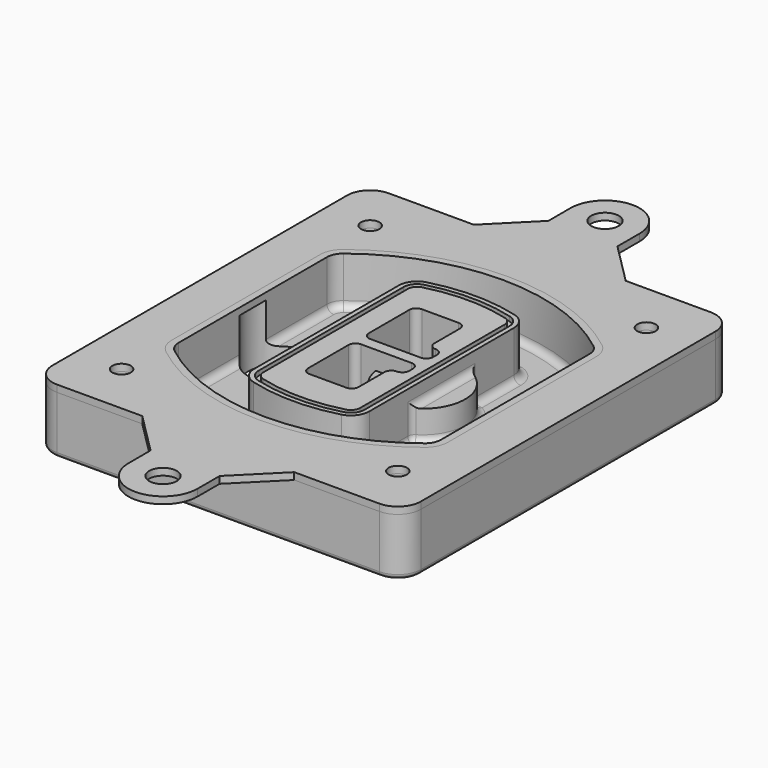
from build123d import *

# Parameters (mm, degrees)
F0_R      = 4
F1_DEPTH  = 25
F2_DEPTH  = 3
F3_DEPTH  = 18
F5_DEPTH  = 21
F6_DEPTH  = 2
F8_DEPTH  = 20
F9_DEPTH  = 16
F10_DEPTH = 25
F7_R      = 6
F7_R_2    = 4
F11_DEPTH = 6
F13_DEPTH = 9
F14_R     = 3
F15_R     = 2
F16_R     = 4
F16_R_2   = 6
F17_DEPTH = 3


with BuildPart() as f1:
    # F0 (on Top) → F1 (new body)
    with BuildSketch(Plane.XY):
        with BuildLine():
            ThreePointArc((-80, -80), (-77.0710678119, -87.0710678119), (-70, -90))
            Line((-70, -90), (70, -90))
            ThreePointArc((70, -90), (77.0710678119, -87.0710678119), (80, -80))
            Line((80, -80), (80, 80))
            ThreePointArc((80, 80), (77.0710678119, 87.0710678119), (70, 90))
            Line((70, 90), (-70, 90))
            ThreePointArc((-70, 90), (-77.0710678119, 87.0710678119), (-80, 80))
            Line((-80, 80), (-80, -80))
        make_face()
        with Locations((-60, -67.5)):
            Circle(F0_R, mode=Mode.SUBTRACT)
        with Locations((60, -67.5)):
            Circle(F0_R, mode=Mode.SUBTRACT)
        with Locations((-60, 67.5)):
            Circle(F0_R, mode=Mode.SUBTRACT)
        with BuildLine():
            ThreePointArc((-64, 40.2934422872), (-62.5820384798, 46.4328484224), (-58.6153846154, 51.3286200352))
            ThreePointArc((-58.6153846154, 51.3286200352), (0, 71.5), (58.6153846154, 51.3286200352))
            ThreePointArc((58.6153846154, 51.3286200352), (62.5820384798, 46.4328484224), (64, 40.2934422872))
            Line((64, 40.2934422872), (64, -40.2934422872))
            ThreePointArc((64, -40.2934422872), (62.5820384798, -46.4328484224), (58.6153846154, -51.3286200352))
            ThreePointArc((58.6153846154, -51.3286200352), (0, -71.5), (-58.6153846154, -51.3286200352))
            ThreePointArc((-58.6153846154, -51.3286200352), (-62.5820384798, -46.4328484224), (-64, -40.2934422872))
            Line((-64, -40.2934422872), (-64, 40.2934422872))
        make_face(mode=Mode.SUBTRACT)
        with Locations((60, 67.5)):
            Circle(F0_R, mode=Mode.SUBTRACT)
        with BuildLine():
            ThreePointArc((58.6153846154, 51.3286200352), (0, 71.5), (-58.6153846154, 51.3286200352))
            ThreePointArc((-58.6153846154, 51.3286200352), (-62.5820384798, 46.4328484224), (-64, 40.2934422872))
            Line((-64, 40.2934422872), (-64, -40.2934422872))
            ThreePointArc((-64, -40.2934422872), (-62.5820384798, -46.4328484224), (-58.6153846154, -51.3286200352))
            ThreePointArc((-58.6153846154, -51.3286200352), (0, -71.5), (58.6153846154, -51.3286200352))
            ThreePointArc((58.6153846154, -51.3286200352), (62.5820384798, -46.4328484224), (64, -40.2934422872))
            Line((64, -40.2934422872), (64, 40.2934422872))
            ThreePointArc((64, 40.2934422872), (62.5820384798, 46.4328484224), (58.6153846154, 51.3286200352))
        make_face()
        with BuildLine():
            Line((-60, -40.2934422872), (-60, 40.2934422872))
            ThreePointArc((-60, 40.2934422872), (-58.9871703427, 44.6787323838), (-56.1538461538, 48.1757121072))
            ThreePointArc((-56.1538461538, 48.1757121072), (0, 67.5), (56.1538461538, 48.1757121072))
            ThreePointArc((56.1538461538, 48.1757121072), (58.9871703427, 44.6787323838), (60, 40.2934422872))
            Line((60, 40.2934422872), (60, -40.2934422872))
            ThreePointArc((60, -40.2934422872), (58.9871703427, -44.6787323838), (56.1538461538, -48.1757121072))
            ThreePointArc((56.1538461538, -48.1757121072), (0, -67.5), (-56.1538461538, -48.1757121072))
            ThreePointArc((-56.1538461538, -48.1757121072), (-58.9871703427, -44.6787323838), (-60, -40.2934422872))
        make_face(mode=Mode.SUBTRACT)
        with BuildLine():
            ThreePointArc((-56.1538461538, 48.1757121072), (-58.9871703427, 44.6787323838), (-60, 40.2934422872))
            Line((-60, 40.2934422872), (-60, -40.2934422872))
            ThreePointArc((-60, -40.2934422872), (-58.9871703427, -44.6787323838), (-56.1538461538, -48.1757121072))
            ThreePointArc((-56.1538461538, -48.1757121072), (0, -67.5), (56.1538461538, -48.1757121072))
            ThreePointArc((56.1538461538, -48.1757121072), (58.9871703427, -44.6787323838), (60, -40.2934422872))
            Line((60, -40.2934422872), (60, 40.2934422872))
            ThreePointArc((60, 40.2934422872), (58.9871703427, 44.6787323838), (56.1538461538, 48.1757121072))
            ThreePointArc((56.1538461538, 48.1757121072), (0, 67.5), (-56.1538461538, 48.1757121072))
        make_face()
        with BuildLine():
            ThreePointArc((54.3076923077, 45.8110311612), (56.2910192399, 43.3631453548), (57, 40.2934422872))
            Line((57, 40.2934422872), (57, -40.2934422872))
            ThreePointArc((57, -40.2934422872), (56.2910192399, -43.3631453548), (54.3076923077, -45.8110311612))
            ThreePointArc((54.3076923077, -45.8110311612), (0, -64.5), (-54.3076923077, -45.8110311612))
            ThreePointArc((-54.3076923077, -45.8110311612), (-56.2910192399, -43.3631453548), (-57, -40.2934422872))
            Line((-57, -40.2934422872), (-57, 40.2934422872))
            ThreePointArc((-57, 40.2934422872), (-56.2910192399, 43.3631453548), (-54.3076923077, 45.8110311612))
            ThreePointArc((-54.3076923077, 45.8110311612), (0, 64.5), (54.3076923077, 45.8110311612))
        make_face(mode=Mode.SUBTRACT)
        with BuildLine():
            Line((57, -40.2934422872), (57, 40.2934422872))
            ThreePointArc((57, 40.2934422872), (56.2910192399, 43.3631453548), (54.3076923077, 45.8110311612))
            ThreePointArc((54.3076923077, 45.8110311612), (0, 64.5), (-54.3076923077, 45.8110311612))
            ThreePointArc((-54.3076923077, 45.8110311612), (-56.2910192399, 43.3631453548), (-57, 40.2934422872))
            Line((-57, 40.2934422872), (-57, -40.2934422872))
            ThreePointArc((-57, -40.2934422872), (-56.2910192399, -43.3631453548), (-54.3076923077, -45.8110311612))
            ThreePointArc((-54.3076923077, -45.8110311612), (0, -64.5), (54.3076923077, -45.8110311612))
            ThreePointArc((54.3076923077, -45.8110311612), (56.2910192399, -43.3631453548), (57, -40.2934422872))
        make_face()
    extrude(amount=-F1_DEPTH)

    # F0 (on Top) → F2 (join)
    with BuildSketch(Plane.XY):
        with BuildLine():
            ThreePointArc((-56.1538461538, 48.1757121072), (-58.9871703427, 44.6787323838), (-60, 40.2934422872))
            Line((-60, 40.2934422872), (-60, -40.2934422872))
            ThreePointArc((-60, -40.2934422872), (-58.9871703427, -44.6787323838), (-56.1538461538, -48.1757121072))
            ThreePointArc((-56.1538461538, -48.1757121072), (0, -67.5), (56.1538461538, -48.1757121072))
            ThreePointArc((56.1538461538, -48.1757121072), (58.9871703427, -44.6787323838), (60, -40.2934422872))
            Line((60, -40.2934422872), (60, 40.2934422872))
            ThreePointArc((60, 40.2934422872), (58.9871703427, 44.6787323838), (56.1538461538, 48.1757121072))
            ThreePointArc((56.1538461538, 48.1757121072), (0, 67.5), (-56.1538461538, 48.1757121072))
        make_face()
        with BuildLine():
            ThreePointArc((54.3076923077, 45.8110311612), (56.2910192399, 43.3631453548), (57, 40.2934422872))
            Line((57, 40.2934422872), (57, -40.2934422872))
            ThreePointArc((57, -40.2934422872), (56.2910192399, -43.3631453548), (54.3076923077, -45.8110311612))
            ThreePointArc((54.3076923077, -45.8110311612), (0, -64.5), (-54.3076923077, -45.8110311612))
            ThreePointArc((-54.3076923077, -45.8110311612), (-56.2910192399, -43.3631453548), (-57, -40.2934422872))
            Line((-57, -40.2934422872), (-57, 40.2934422872))
            ThreePointArc((-57, 40.2934422872), (-56.2910192399, 43.3631453548), (-54.3076923077, 45.8110311612))
            ThreePointArc((-54.3076923077, 45.8110311612), (0, 64.5), (54.3076923077, 45.8110311612))
        make_face(mode=Mode.SUBTRACT)
    extrude(amount=F2_DEPTH)

    # F0 (on Top) → F3 (cut)
    with BuildSketch(Plane.XY):
        with BuildLine():
            Line((57, -40.2934422872), (57, 40.2934422872))
            ThreePointArc((57, 40.2934422872), (56.2910192399, 43.3631453548), (54.3076923077, 45.8110311612))
            ThreePointArc((54.3076923077, 45.8110311612), (0, 64.5), (-54.3076923077, 45.8110311612))
            ThreePointArc((-54.3076923077, 45.8110311612), (-56.2910192399, 43.3631453548), (-57, 40.2934422872))
            Line((-57, 40.2934422872), (-57, -40.2934422872))
            ThreePointArc((-57, -40.2934422872), (-56.2910192399, -43.3631453548), (-54.3076923077, -45.8110311612))
            ThreePointArc((-54.3076923077, -45.8110311612), (0, -64.5), (54.3076923077, -45.8110311612))
            ThreePointArc((54.3076923077, -45.8110311612), (56.2910192399, -43.3631453548), (57, -40.2934422872))
        make_face()
    extrude(amount=-F3_DEPTH, mode=Mode.SUBTRACT)

    # F4 (on face) → F5 (join, through all)
    with BuildSketch(Plane.XY.offset(3)):
        with BuildLine():
            ThreePointArc((-25, -39.2465276821), (-23.3511545998, -44.1109737193), (-19.0842911877, -46.9702398883))
            ThreePointArc((-19.0842911877, -46.9702398883), (0, -49.5), (19.0842911877, -46.9702398883))
            ThreePointArc((19.0842911877, -46.9702398883), (23.3511545998, -44.1109737193), (25, -39.2465276821))
            Line((25, -39.2465276821), (25, 39.2465276821))
            ThreePointArc((25, 39.2465276821), (23.3511545998, 44.1109737193), (19.0842911877, 46.9702398883))
            ThreePointArc((19.0842911877, 46.9702398883), (0, 49.5), (-19.0842911877, 46.9702398883))
            ThreePointArc((-19.0842911877, 46.9702398883), (-23.3511545998, 44.1109737193), (-25, 39.2465276821))
            Line((-25, 39.2465276821), (-25, -39.2465276821))
        make_face()
        with BuildLine():
            ThreePointArc((18.5632183908, 45.0393118368), (21.7633659499, 42.89486221), (23, 39.2465276821))
            Line((23, 39.2465276821), (23, -39.2465276821))
            ThreePointArc((23, -39.2465276821), (21.7633659499, -42.89486221), (18.5632183908, -45.0393118368))
            ThreePointArc((18.5632183908, -45.0393118368), (0, -47.5), (-18.5632183908, -45.0393118368))
            ThreePointArc((-18.5632183908, -45.0393118368), (-21.7633659499, -42.89486221), (-23, -39.2465276821))
            Line((-23, -39.2465276821), (-23, 39.2465276821))
            ThreePointArc((-23, 39.2465276821), (-21.7633659499, 42.89486221), (-18.5632183908, 45.0393118368))
            ThreePointArc((-18.5632183908, 45.0393118368), (0, 47.5), (18.5632183908, 45.0393118368))
        make_face(mode=Mode.SUBTRACT)
        with BuildLine():
            Line((23, -39.2465276821), (23, 39.2465276821))
            ThreePointArc((23, 39.2465276821), (21.7633659499, 42.89486221), (18.5632183908, 45.0393118368))
            ThreePointArc((18.5632183908, 45.0393118368), (0, 47.5), (-18.5632183908, 45.0393118368))
            ThreePointArc((-18.5632183908, 45.0393118368), (-21.7633659499, 42.89486221), (-23, 39.2465276821))
            Line((-23, 39.2465276821), (-23, -39.2465276821))
            ThreePointArc((-23, -39.2465276821), (-21.7633659499, -42.89486221), (-18.5632183908, -45.0393118368))
            ThreePointArc((-18.5632183908, -45.0393118368), (0, -47.5), (18.5632183908, -45.0393118368))
            ThreePointArc((18.5632183908, -45.0393118368), (21.7633659499, -42.89486221), (23, -39.2465276821))
        make_face()
        with BuildLine():
            ThreePointArc((18.0421455939, 43.1083837852), (20.1755772999, 41.6787507007), (21, 39.2465276821))
            Line((21, 39.2465276821), (21, -39.2465276821))
            ThreePointArc((21, -39.2465276821), (20.1755772999, -41.6787507007), (18.0421455939, -43.1083837852))
            ThreePointArc((18.0421455939, -43.1083837852), (0, -45.5), (-18.0421455939, -43.1083837852))
            ThreePointArc((-18.0421455939, -43.1083837852), (-20.1755772999, -41.6787507007), (-21, -39.2465276821))
            Line((-21, -39.2465276821), (-21, 39.2465276821))
            ThreePointArc((-21, 39.2465276821), (-20.1755772999, 41.6787507007), (-18.0421455939, 43.1083837852))
            ThreePointArc((-18.0421455939, 43.1083837852), (0, 45.5), (18.0421455939, 43.1083837852))
        make_face(mode=Mode.SUBTRACT)
        with BuildLine():
            Line((21, -39.2465276821), (21, 39.2465276821))
            ThreePointArc((21, 39.2465276821), (20.1755772999, 41.6787507007), (18.0421455939, 43.1083837852))
            ThreePointArc((18.0421455939, 43.1083837852), (0, 45.5), (-18.0421455939, 43.1083837852))
            ThreePointArc((-18.0421455939, 43.1083837852), (-20.1755772999, 41.6787507007), (-21, 39.2465276821))
            Line((-21, 39.2465276821), (-21, -39.2465276821))
            ThreePointArc((-21, -39.2465276821), (-20.1755772999, -41.6787507007), (-18.0421455939, -43.1083837852))
            ThreePointArc((-18.0421455939, -43.1083837852), (0, -45.5), (18.0421455939, -43.1083837852))
            ThreePointArc((18.0421455939, -43.1083837852), (20.1755772999, -41.6787507007), (21, -39.2465276821))
        make_face()
        with BuildLine():
            Line((-8, -2.5), (14, -2.5))
            ThreePointArc((14, -2.5), (16.1213203436, -3.3786796564), (17, -5.5))
            Line((17, -5.5), (17, -7.5))
            ThreePointArc((17, -7.5), (16.1213203436, -9.6213203436), (14, -10.5))
            ThreePointArc((14, -10.5), (11.8786796564, -11.3786796564), (11, -13.5))
            Line((11, -13.5), (11, -27.5))
            ThreePointArc((11, -27.5), (10.1213203436, -29.6213203436), (8, -30.5))
            Line((8, -30.5), (-8, -30.5))
            ThreePointArc((-8, -30.5), (-10.1213203436, -29.6213203436), (-11, -27.5))
            Line((-11, -27.5), (-11, -5.5))
            ThreePointArc((-11, -5.5), (-10.1213203436, -3.3786796564), (-8, -2.5))
        make_face(mode=Mode.SUBTRACT)
        with BuildLine():
            ThreePointArc((-8, 2.5), (-10.1213203436, 3.3786796564), (-11, 5.5))
            Line((-11, 5.5), (-11, 27.5))
            ThreePointArc((-11, 27.5), (-10.1213203436, 29.6213203436), (-8, 30.5))
            Line((-8, 30.5), (8, 30.5))
            ThreePointArc((8, 30.5), (10.1213203436, 29.6213203436), (11, 27.5))
            Line((11, 27.5), (11, 13.5))
            ThreePointArc((11, 13.5), (11.8786796564, 11.3786796564), (14, 10.5))
            ThreePointArc((14, 10.5), (16.1213203436, 9.6213203436), (17, 7.5))
            Line((17, 7.5), (17, 5.5))
            ThreePointArc((17, 5.5), (16.1213203436, 3.3786796564), (14, 2.5))
            Line((14, 2.5), (-8, 2.5))
        make_face(mode=Mode.SUBTRACT)
    extrude(amount=-F5_DEPTH)

    # F4 (on face) → F6 (cut)
    with BuildSketch(Plane.XY.offset(3)):
        with BuildLine():
            Line((23, -39.2465276821), (23, 39.2465276821))
            ThreePointArc((23, 39.2465276821), (21.7633659499, 42.89486221), (18.5632183908, 45.0393118368))
            ThreePointArc((18.5632183908, 45.0393118368), (0, 47.5), (-18.5632183908, 45.0393118368))
            ThreePointArc((-18.5632183908, 45.0393118368), (-21.7633659499, 42.89486221), (-23, 39.2465276821))
            Line((-23, 39.2465276821), (-23, -39.2465276821))
            ThreePointArc((-23, -39.2465276821), (-21.7633659499, -42.89486221), (-18.5632183908, -45.0393118368))
            ThreePointArc((-18.5632183908, -45.0393118368), (0, -47.5), (18.5632183908, -45.0393118368))
            ThreePointArc((18.5632183908, -45.0393118368), (21.7633659499, -42.89486221), (23, -39.2465276821))
        make_face()
        with BuildLine():
            ThreePointArc((18.0421455939, 43.1083837852), (20.1755772999, 41.6787507007), (21, 39.2465276821))
            Line((21, 39.2465276821), (21, -39.2465276821))
            ThreePointArc((21, -39.2465276821), (20.1755772999, -41.6787507007), (18.0421455939, -43.1083837852))
            ThreePointArc((18.0421455939, -43.1083837852), (0, -45.5), (-18.0421455939, -43.1083837852))
            ThreePointArc((-18.0421455939, -43.1083837852), (-20.1755772999, -41.6787507007), (-21, -39.2465276821))
            Line((-21, -39.2465276821), (-21, 39.2465276821))
            ThreePointArc((-21, 39.2465276821), (-20.1755772999, 41.6787507007), (-18.0421455939, 43.1083837852))
            ThreePointArc((-18.0421455939, 43.1083837852), (0, 45.5), (18.0421455939, 43.1083837852))
        make_face(mode=Mode.SUBTRACT)
    extrude(amount=-F6_DEPTH, mode=Mode.SUBTRACT)

    # F7 (on face) → F8 (join)
    with BuildSketch(Plane(origin=(0, 0, -25), x_dir=(1, 0, 0), z_dir=(0, 0, -1))):
        with BuildLine():
            ThreePointArc((3.28842436, 0), (16.7567035675, 13.4682792075), (30.224982775, 0))
            Line((30.224982775, 0), (35.224982775, 0))
            ThreePointArc((35.224982775, 0), (16.7567035675, 18.4682792075), (-1.71157564, 0))
            Line((-1.71157564, 0), (3.28842436, 0))
        make_face()
        with BuildLine():
            Line((3.28842436, 0), (30.224982775, 0))
            ThreePointArc((30.224982775, 0), (16.7567035675, 13.4682792075), (3.28842436, 0))
        make_face()
        with BuildLine():
            ThreePointArc((3.28842436, 0), (16.7567035675, -13.4682792075), (30.224982775, 0))
            Line((30.224982775, 0), (3.28842436, 0))
        make_face()
        with BuildLine():
            Line((35.224982775, 0), (30.224982775, 0))
            ThreePointArc((30.224982775, 0), (16.7567035675, -13.4682792075), (3.28842436, 0))
            Line((3.28842436, 0), (-1.71157564, 0))
            ThreePointArc((-1.71157564, 0), (16.7567035675, -18.4682792075), (35.224982775, 0))
        make_face()
    extrude(amount=-F8_DEPTH)

    # F7 (on face) → F9 (cut)
    with BuildSketch(Plane(origin=(0, 0, -25), x_dir=(1, 0, 0), z_dir=(0, 0, -1))):
        with BuildLine():
            Line((3.28842436, 0), (30.224982775, 0))
            ThreePointArc((30.224982775, 0), (16.7567035675, 13.4682792075), (3.28842436, 0))
        make_face()
        with BuildLine():
            ThreePointArc((3.28842436, 0), (16.7567035675, -13.4682792075), (30.224982775, 0))
            Line((30.224982775, 0), (3.28842436, 0))
        make_face()
    extrude(amount=-F9_DEPTH, mode=Mode.SUBTRACT)

    # F7 (on face) → F10 (cut)
    with BuildSketch(Plane(origin=(0, 0, -25), x_dir=(1, 0, 0), z_dir=(0, 0, -1))):
        with BuildLine():
            Line((-59.0318229325, 0), (-32.0952645175, 0))
            ThreePointArc((-32.0952645175, 0), (-45.563543725, 13.4682792075), (-59.0318229325, 0))
        make_face()
        with BuildLine():
            ThreePointArc((-59.0318229325, 0), (-45.563543725, -13.4682792075), (-32.0952645175, 0))
            Line((-32.0952645175, 0), (-59.0318229325, 0))
        make_face()
    extrude(amount=-F10_DEPTH, mode=Mode.SUBTRACT)

    # F7 (on face) → F11 (cut)
    with BuildSketch(Plane(origin=(0, 0, -25), x_dir=(1, 0, 0), z_dir=(0, 0, -1))):
        with Locations((60, -67.5)):
            Circle(F7_R)
        with Locations((60, -67.5)):
            Circle(F7_R_2, mode=Mode.SUBTRACT)
        with Locations((60, -67.5)):
            Circle(F7_R)
        with Locations((60, -67.5)):
            Circle(F7_R_2, mode=Mode.SUBTRACT)
        with Locations((-60, -67.5)):
            Circle(F7_R)
        with Locations((-60, -67.5)):
            Circle(F7_R_2, mode=Mode.SUBTRACT)
        with Locations((-60, -67.5)):
            Circle(F7_R)
        with Locations((-60, -67.5)):
            Circle(F7_R_2, mode=Mode.SUBTRACT)
        with Locations((-60, 67.5)):
            Circle(F7_R)
        with Locations((-60, 67.5)):
            Circle(F7_R_2, mode=Mode.SUBTRACT)
        with Locations((-60, 67.5)):
            Circle(F7_R)
        with Locations((-60, 67.5)):
            Circle(F7_R_2, mode=Mode.SUBTRACT)
        with Locations((60, 67.5)):
            Circle(F7_R)
        with Locations((60, 67.5)):
            Circle(F7_R_2, mode=Mode.SUBTRACT)
        with Locations((60, 67.5)):
            Circle(F7_R)
        with Locations((60, 67.5)):
            Circle(F7_R_2, mode=Mode.SUBTRACT)
    extrude(amount=-F11_DEPTH, mode=Mode.SUBTRACT)

    # F12 (on face) → F13 (cut, through all)
    with BuildSketch(Plane(origin=(0, 0, -9), x_dir=(1, 0, 0), z_dir=(0, 0, -1))):
        with BuildLine():
            Line((11, 13.5), (11, 17.5481537753))
            ThreePointArc((11, 17.5481537753), (2.5696536419, 11.8239143813), (-1.5415842455, 2.5))
            Line((-1.5415842455, 2.5), (3.5224848595, 2.5))
            ThreePointArc((3.5224848595, 2.5), (6.1857188154, 8.3455872281), (11.2536447004, 12.2927168648))
            ThreePointArc((11.2536447004, 12.2927168648), (11.0640958889, 12.8831798879), (11, 13.5))
        make_face()
        with BuildLine():
            ThreePointArc((11.2536447004, -12.2927168648), (6.1857188154, -8.3455872281), (3.5224848595, -2.5))
            Line((3.5224848595, -2.5), (-1.5415842455, -2.5))
            ThreePointArc((-1.5415842455, -2.5), (2.5696536419, -11.8239143813), (11, -17.5481537753))
            Line((11, -17.5481537753), (11, -13.5))
            ThreePointArc((11, -13.5), (11.0640958889, -12.8831798879), (11.2536447004, -12.2927168648))
        make_face()
        with BuildLine():
            ThreePointArc((11.2536447004, 12.2927168648), (6.1857188154, 8.3455872281), (3.5224848595, 2.5))
            Line((3.5224848595, 2.5), (14, 2.5))
            ThreePointArc((14, 2.5), (16.1213203436, 3.3786796564), (17, 5.5))
            Line((17, 5.5), (17, 7.5))
            ThreePointArc((17, 7.5), (16.1213203436, 9.6213203436), (14, 10.5))
            ThreePointArc((14, 10.5), (12.3601599782, 10.9878446101), (11.2536447004, 12.2927168648))
        make_face()
        with BuildLine():
            Line((14, -2.5), (3.5224848595, -2.5))
            ThreePointArc((3.5224848595, -2.5), (6.1857188154, -8.3455872281), (11.2536447004, -12.2927168648))
            ThreePointArc((11.2536447004, -12.2927168648), (12.3601599782, -10.9878446101), (14, -10.5))
            ThreePointArc((14, -10.5), (16.1213203436, -9.6213203436), (17, -7.5))
            Line((17, -7.5), (17, -5.5))
            ThreePointArc((17, -5.5), (16.1213203436, -3.3786796564), (14, -2.5))
        make_face()
    extrude(amount=F13_DEPTH, mode=Mode.SUBTRACT)

    # F14
    f14_edges = [f1.edges().sort_by_distance(p)[0] for p in [
        (-57, -23.703476, -18),
        (-57, 23.703476, -18),
        (25, 0, -5),
        (25, 16.526506, -11.5),
        (25, -16.526506, -11.5),
        (25, -27.886517, -18),
        (35.224983, 0, -18),
    ]]
    fillet(f14_edges, radius=F14_R)

    # F15
    f15_edges = [f1.edges().sort_by_distance(p)[0] for p in [
        (0, -90, -25),
    ]]
    fillet(f15_edges, radius=F15_R)


with BuildPart() as f17:
    # F16 (on face) → F17 (new body, through all)
    with BuildSketch(Plane.XY.offset(3)):
        with BuildLine():
            Line((33, 90), (-33, 90))
            Line((-33, 90), (-70, 90))
            ThreePointArc((-70, 90), (-77.0710678119, 87.0710678119), (-80, 80))
            Line((-80, 80), (-80, -80))
            ThreePointArc((-80, -80), (-77.0710678119, -87.0710678119), (-70, -90))
            Line((-70, -90), (-33, -90))
            Line((-33, -90), (33, -90))
            Line((33, -90), (70, -90))
            ThreePointArc((70, -90), (77.0710678119, -87.0710678119), (80, -80))
            Line((80, -80), (80, 80))
            ThreePointArc((80, 80), (77.0710678119, 87.0710678119), (70, 90))
            Line((70, 90), (33, 90))
        make_face()
        with Locations((-60, -67.5)):
            Circle(F16_R, mode=Mode.SUBTRACT)
        with Locations((60, -67.5)):
            Circle(F16_R, mode=Mode.SUBTRACT)
        with Locations((-60, 67.5)):
            Circle(F16_R, mode=Mode.SUBTRACT)
        with BuildLine():
            ThreePointArc((-56.1538461538, 48.1757121072), (0, 67.5), (56.1538461538, 48.1757121072))
            ThreePointArc((56.1538461538, 48.1757121072), (58.9871703427, 44.6787323838), (60, 40.2934422872))
            Line((60, 40.2934422872), (60, -40.2934422872))
            ThreePointArc((60, -40.2934422872), (58.9871703427, -44.6787323838), (56.1538461538, -48.1757121072))
            ThreePointArc((56.1538461538, -48.1757121072), (0, -67.5), (-56.1538461538, -48.1757121072))
            ThreePointArc((-56.1538461538, -48.1757121072), (-58.9871703427, -44.6787323838), (-60, -40.2934422872))
            Line((-60, -40.2934422872), (-60, 40.2934422872))
            ThreePointArc((-60, 40.2934422872), (-58.9871703427, 44.6787323838), (-56.1538461538, 48.1757121072))
        make_face(mode=Mode.SUBTRACT)
        with Locations((60, 67.5)):
            Circle(F16_R, mode=Mode.SUBTRACT)
        with BuildLine():
            Line((-15, 108), (-33, 90))
            Line((-33, 90), (33, 90))
            Line((33, 90), (15, 108))
            Line((15, 108), (15, 120))
            ThreePointArc((15, 120), (0, 135), (-15, 120))
            Line((-15, 120), (-15, 108))
        make_face()
        with Locations((0, 120)):
            Circle(F16_R_2, mode=Mode.SUBTRACT)
        with BuildLine():
            Line((33, -90), (-33, -90))
            Line((-33, -90), (-15, -108))
            Line((-15, -108), (-15, -120))
            ThreePointArc((-15, -120), (0, -135), (15, -120))
            Line((15, -120), (15, -108))
            Line((15, -108), (33, -90))
        make_face()
        with Locations((0, -120)):
            Circle(F16_R_2, mode=Mode.SUBTRACT)
    extrude(amount=-F17_DEPTH)


solid = Compound([f1.part, f17.part])
